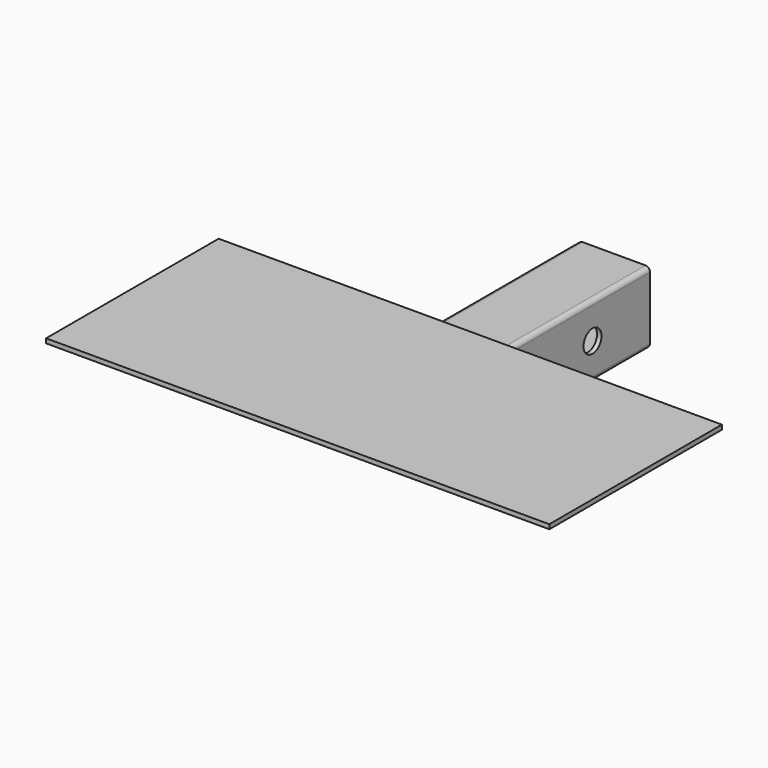
from build123d import *

# Parameters (mm, degrees)
F0_W     = 355.6
F0_H     = 152.4
F1_DEPTH = 3.175
F2_W     = 44.45
F2_H     = 44.45
F3_DEPTH = 203.2
F5_D     = 15.875


with BuildPart() as f1:
    # F0 (on Top) → F1 (new body)
    with BuildSketch(Plane.XY):
        Rectangle(F0_W, F0_H)
    extrude(amount=F1_DEPTH)

    # F2 (on Front) → F3 (join)
    with BuildSketch(Plane.XZ):
        with BuildLine():
            Line((22.225, 0), (-22.225, 0))
            ThreePointArc((-22.225, 0), (-24.470064, -0.929936), (-25.4, -3.175))
            Line((-25.4, -3.175), (-25.4, -47.625))
            ThreePointArc((-25.4, -47.625), (-24.470064, -49.870064), (-22.225, -50.8))
            Line((-22.225, -50.8), (22.225, -50.8))
            ThreePointArc((22.225, -50.8), (24.470064, -49.870064), (25.4, -47.625))
            Line((25.4, -47.625), (25.4, -3.175))
            ThreePointArc((25.4, -3.175), (24.470064, -0.929936), (22.225, 0))
        make_face()
        with Locations((0, -25.4)):
            Rectangle(F2_W, F2_H, mode=Mode.SUBTRACT)
    extrude(amount=-F3_DEPTH)

    # F5 (through all)
    with Locations(Plane(origin=(-25.4, 0, 0), x_dir=(0, -1, 0), z_dir=(-1, 0, 0))):
        with Locations((-152.4, -25.4)):
            Hole(F5_D / 2)


solid = f1.part
